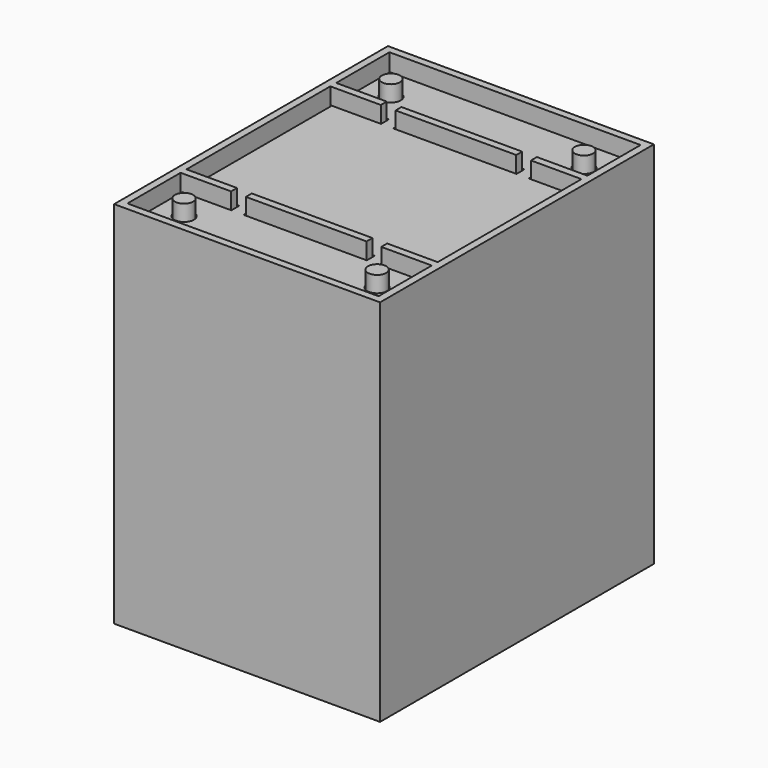
from build123d import *

# Parameters (mm, degrees)
SKETCH_R      = 4
SKETCH_W      = 50
SKETCH_H      = 4
PAD_DEPTH     = 3
SKETCH001_W   = 5
SKETCH001_H   = 131
PAD005_DEPTH  = 5
SKETCH002_W   = 108
SKETCH002_H   = 139
PAD002_DEPTH  = 150
SKETCH003_W   = 102
SKETCH003_H   = 133
POCKET_DEPTH  = 139.6
SKETCH004_R   = 3.7
PAD003_DEPTH  = 139.6
SKETCH005_W   = 20.5
SKETCH005_H   = 3
SKETCH005_W_2 = 49
PAD004_DEPTH  = 139.6


with BuildPart() as plateau:
    # Sketch → Pad (new body)
    with BuildSketch(Plane.XY):
        Polygon((50, 35.5), (50, -35.5), (50, -36), (30, -36), (30, -40), (50, -40), (50, -65.5), (-50, -65.5), (-50, -40), (-30, -40), (-30, -36), (-50, -36), (-50, 36), (-30, 36), (-30, 40), (-50, 40), (-50, 65.5), (50, 65.5), (50, 40), (30, 40), (30, 36), (50, 36), align=None)
        with Locations((-39.207195, 52.5)):
            Circle(SKETCH_R, mode=Mode.SUBTRACT)
        with Locations((39.207195, 52.5)):
            Circle(SKETCH_R, mode=Mode.SUBTRACT)
        with Locations((-39.207195, -52.5)):
            Circle(SKETCH_R, mode=Mode.SUBTRACT)
        with Locations((39.207195, -52.5)):
            Circle(SKETCH_R, mode=Mode.SUBTRACT)
        with Locations((0, 38)):
            Rectangle(SKETCH_W, SKETCH_H, mode=Mode.SUBTRACT)
        with Locations((0, -38)):
            Rectangle(SKETCH_W, SKETCH_H, mode=Mode.SUBTRACT)
    extrude(amount=PAD_DEPTH)

    # Sketch001 (on Face35 of Pad) → Pad005 (join)
    with BuildSketch(Plane(origin=(0, 0, 0), x_dir=(1, 0, 0), z_dir=(0, 0, -1))):
        with Locations((-27.5, 0)):
            Rectangle(SKETCH001_W, SKETCH001_H)
        with Locations((27.5, 0)):
            Rectangle(SKETCH001_W, SKETCH001_H)
    extrude(amount=PAD005_DEPTH)


with BuildPart() as plateau_1:
    # Body placement: moved
    add(plateau.part.moved(Location((0, 0, 140.6))))


with BuildPart() as cage:
    # Sketch002 → Pad002 (new body)
    with BuildSketch(Plane.XY):
        Rectangle(SKETCH002_W, SKETCH002_H)
    extrude(amount=PAD002_DEPTH)

    # Sketch003 (on Face6 of Pad002) → Pocket (cut)
    with BuildSketch(Plane.XY.offset(150)):
        Rectangle(SKETCH003_W, SKETCH003_H)
    extrude(amount=-POCKET_DEPTH, mode=Mode.SUBTRACT)

    # Sketch004 (on Face11 of Pocket) → Pad003 (join)
    with BuildSketch(Plane.XY.offset(10.4)):
        with Locations((-39.2, -52.5)):
            Circle(SKETCH004_R)
        with Locations((39.2, -52.5)):
            Circle(SKETCH004_R)
        with Locations((-39.2, 52.5)):
            Circle(SKETCH004_R)
        with Locations((39.2, 52.5)):
            Circle(SKETCH004_R)
    extrude(amount=PAD003_DEPTH)

    # Sketch005 (on Face11 of Pad003) → Pad004 (join)
    with BuildSketch(Plane.XY.offset(10.4)):
        with Locations((-40.75, 38)):
            Rectangle(SKETCH005_W, SKETCH005_H)
        with Locations((0, 38)):
            Rectangle(SKETCH005_W_2, SKETCH005_H)
        with Locations((40.75, 38)):
            Rectangle(SKETCH005_W, SKETCH005_H)
        with Locations((-40.75, -38)):
            Rectangle(SKETCH005_W, SKETCH005_H)
        with Locations((0, -38)):
            Rectangle(SKETCH005_W_2, SKETCH005_H)
        with Locations((40.75, -38)):
            Rectangle(SKETCH005_W, SKETCH005_H)
    extrude(amount=PAD004_DEPTH)


solid = Compound([plateau_1.part, cage.part])
